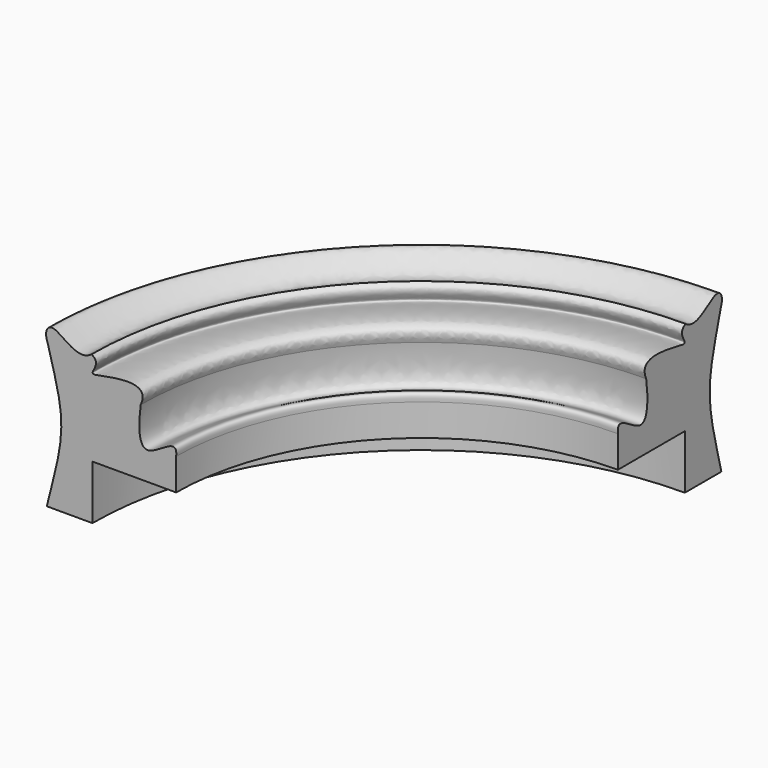
from build123d import *

# Parameters (mm, degrees)
F1_ANGLE = 90


with BuildPart() as f1:
    # F0 (on Right) → F1 (revolve)
    with BuildSketch(Plane.YZ):
        with BuildLine():
            add(Edge.make_bspline(
                [(44.9629759644, 19.2068159449), (45.2896700158, 17.0020565719), (45.7948185242, 9.4659448261), (38.9577579083, 16.7172058677), (39.2939069786, 13.7653901408)],
                knots=[0, 0, 0, 0, 0.5411579982, 1, 1, 1, 1], degree=3))
            Line((39.2939069786, 13.7653901408), (39.2939069786, 8.6834598333))
            Line((39.2939069786, 8.6834598333), (52.6996197323, 8.6834598333))
            Line((52.6996197323, 8.6834598333), (52.6996197323, 0))
            Line((52.6996197323, 0), (60.0046112817, 0))
            add(Edge.make_bspline(
                [(59.8707117079, 23.0838607896), (59.0869516101, 19.8593905219), (56.262665709, 12.2346217846), (59.1000537225, 3.9129321986), (60.0046112817, 0)],
                knots=[0, 0, 0, 0, 0.4833625756, 1, 1, 1, 1], degree=3))
            add(Edge.make_bspline(
                [(52.8565548371, 23.7399012216), (55.153139349, 22.015702981), (58.9946715942, 27.1486834207), (60.4687916311, 24.6031336533), (59.8707117079, 23.0838607896)],
                knots=[0, 0, 0, 0, 0.6142401939, 1, 1, 1, 1], degree=3))
            add(Edge.make_bspline(
                [(52.8565548371, 23.7399012216), (51.3947651084, 23.0315331196), (53.6720793982, 20.5496420255), (50.4750880047, 21.5596321234), (43.4689456239, 22.432024056), (44.9629759644, 19.2068159449)],
                knots=[0, 0, 0, 0, 0.2832830359, 0.5663087761, 1, 1, 1, 1], degree=3))
        make_face()
    revolve(axis=Axis((0, 0, 12.9788592458), (0, 0, 1)), revolution_arc=F1_ANGLE)


solid = f1.part
